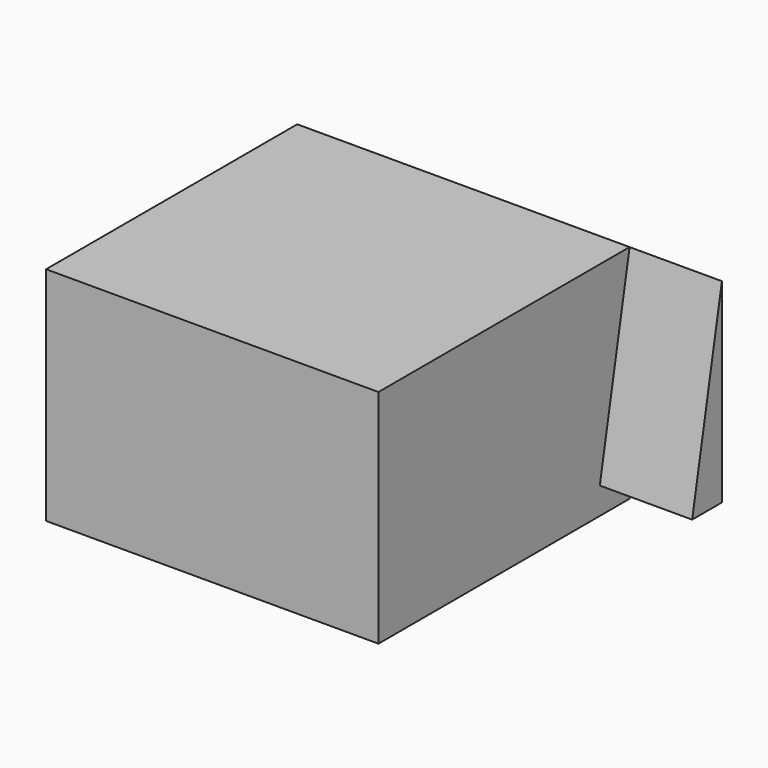
from build123d import *

# Parameters (mm, degrees)
F0_W      = 90
F0_H      = 60
F1_DEPTH  = 25
F1_FACE_W = 90
F1_FACE_H = 60
F2_DEPTH  = 60
F4_DEPTH  = 25


with BuildPart() as f1:
    # F0 (on Front) → F1 (new body)
    with BuildSketch(Plane.XZ):
        with Locations((45, 30)):
            Rectangle(F0_W, F0_H)
    extrude(amount=F1_DEPTH)

    # F1_face (on face) → F2 (join)
    with BuildSketch(Plane(origin=(45, -25, 30), x_dir=(1, 0, 0), z_dir=(0, -1, 0))):
        Rectangle(F1_FACE_W, F1_FACE_H)
    extrude(amount=F2_DEPTH)

    # F3 (on face) → F4 (join)
    with BuildSketch(Plane.YZ.offset(90)):
        Polygon((0, 7.243759), (0, 60), (-10.070629, 7.243759), align=None)
    extrude(amount=F4_DEPTH)


solid = f1.part
